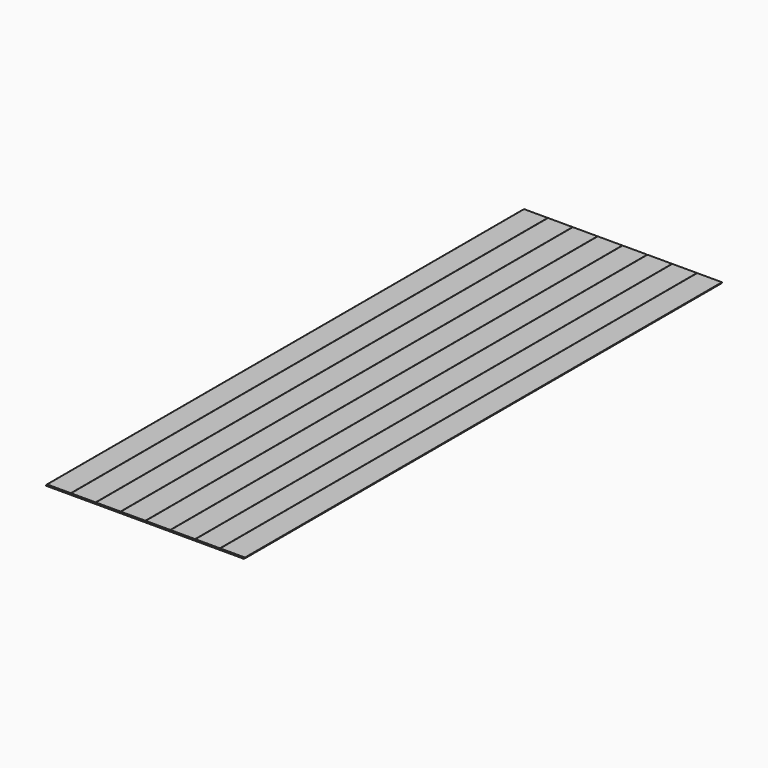
from build123d import *

# Parameters (mm, degrees)
F0_W     = 1219.2
F0_H     = 3654.425
F1_DEPTH = 4.7625
F2_W     = 6.35
F2_H     = 4.7625
F3_DEPTH = 3654.426
F4_W     = 1.5875
F4_H     = 1.5875
F5_DEPTH = 3654.426


with BuildPart() as f1:
    # F0 (on Top) → F1 (new body, symmetric)
    with BuildSketch(Plane.XY):
        with Locations((0, 1303.43302)):
            Rectangle(F0_W, F0_H)
    extrude(amount=F1_DEPTH, both=True)

    # F2 (on face) → F3 (cut, through all)
    with BuildSketch(Plane.XZ.offset(523.77948)):
        with Locations((606.425, -2.38125)):
            Rectangle(F2_W, F2_H)
        with Locations((-606.425, 2.38125)):
            Rectangle(F2_W, F2_H)
    extrude(amount=-F3_DEPTH, mode=Mode.SUBTRACT)

    # F4 (on face) → F5 (cut, through all)
    with BuildSketch(Plane.XZ.offset(523.77948)):
        with Locations((-457.2, 3.96875)):
            Rectangle(F4_W, F4_H)
        with Locations((-304.8, 3.96875)):
            Rectangle(F4_W, F4_H)
        with Locations((-152.4, 3.96875)):
            Rectangle(F4_W, F4_H)
        with Locations((0, 3.96875)):
            Rectangle(F4_W, F4_H)
        with Locations((152.4, 3.96875)):
            Rectangle(F4_W, F4_H)
        with Locations((304.8, 3.96875)):
            Rectangle(F4_W, F4_H)
        with Locations((457.2, 3.96875)):
            Rectangle(F4_W, F4_H)
    extrude(amount=-F5_DEPTH, mode=Mode.SUBTRACT)


solid = f1.part
